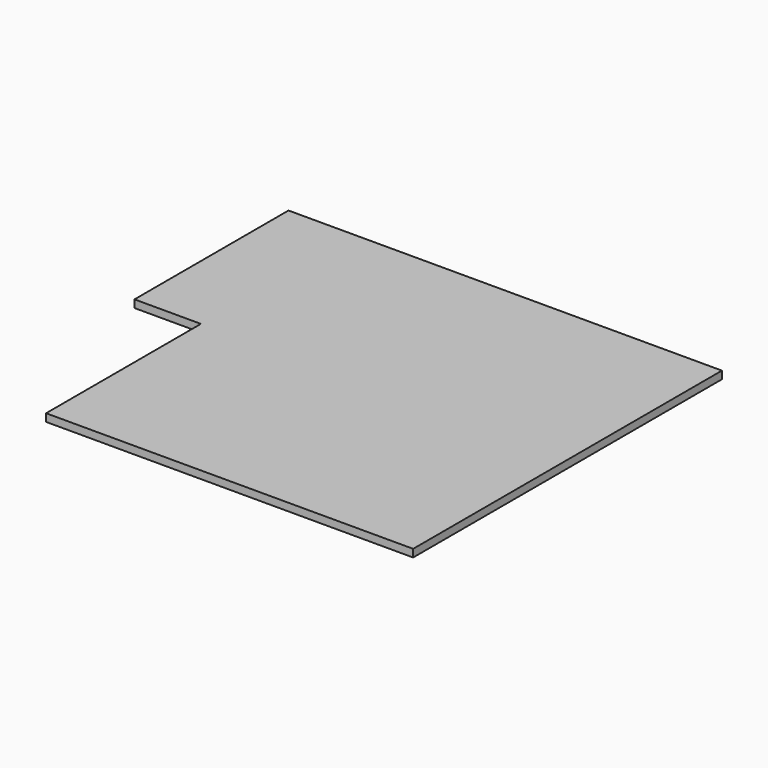
from build123d import *

# Parameters (mm, degrees)
F0_W     = 3680
F0_H     = 2480
F1_DEPTH = 150


with BuildPart() as f1:
    # F0 (on Top) → F1 (new body)
    with BuildSketch(Plane.XY):
        Polygon((0, 3790), (0, 0), (7190, 0), (7190, 3790), (3510, 3790), (3510, 6270), (0, 6270), (-1300, 6270), (-1300, 3790), align=None)
        with Locations((5350, 5030)):
            Rectangle(F0_W, F0_H)
        Polygon((3510, 6270), (7190, 6270), (7190, 7560), (-1300, 7560), (-1300, 6270), (0, 6270), align=None)
    extrude(amount=-F1_DEPTH)


solid = f1.part
